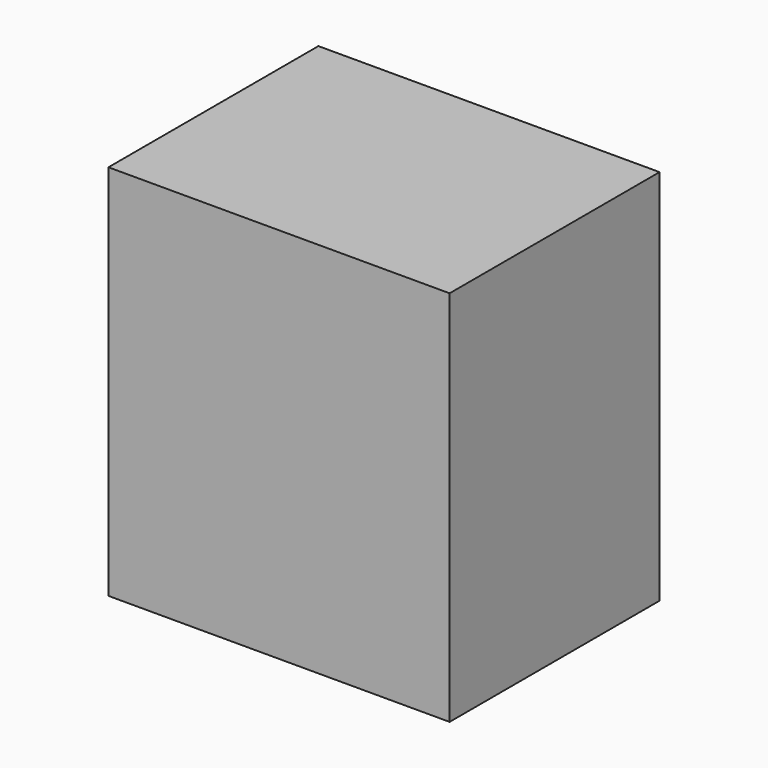
from build123d import *

# Parameters (mm, degrees)
F0_W     = 130
F0_H     = 100
F1_DEPTH = 180
F2_R     = 36.213203
F4_DEPTH = 115


with BuildPart() as f1:
    # F0 (on Top) → F1 (new body)
    with BuildSketch(Plane.XY):
        Rectangle(F0_W, F0_H)
    extrude(amount=-F1_DEPTH)

    # F2
    f2_edges = [f1.edges().sort_by_distance(p)[0] for p in [
        (65, 0, -180),
        (-65, 0, -180),
    ]]
    fillet(f2_edges, radius=F2_R)

    # F3 (on face) → F4 (cut)
    with BuildSketch(Plane.XZ.offset(50)):
        with BuildLine():
            ThreePointArc((28.786797, -180), (54.393398, -169.393398), (65, -143.786797))
            Line((65, -143.786797), (-65, -143.786797))
            ThreePointArc((-65, -143.786797), (-54.393398, -169.393398), (-28.786797, -180))
            Line((-28.786797, -180), (28.786797, -180))
        make_face()
    extrude(amount=-F4_DEPTH, mode=Mode.SUBTRACT)


solid = f1.part
